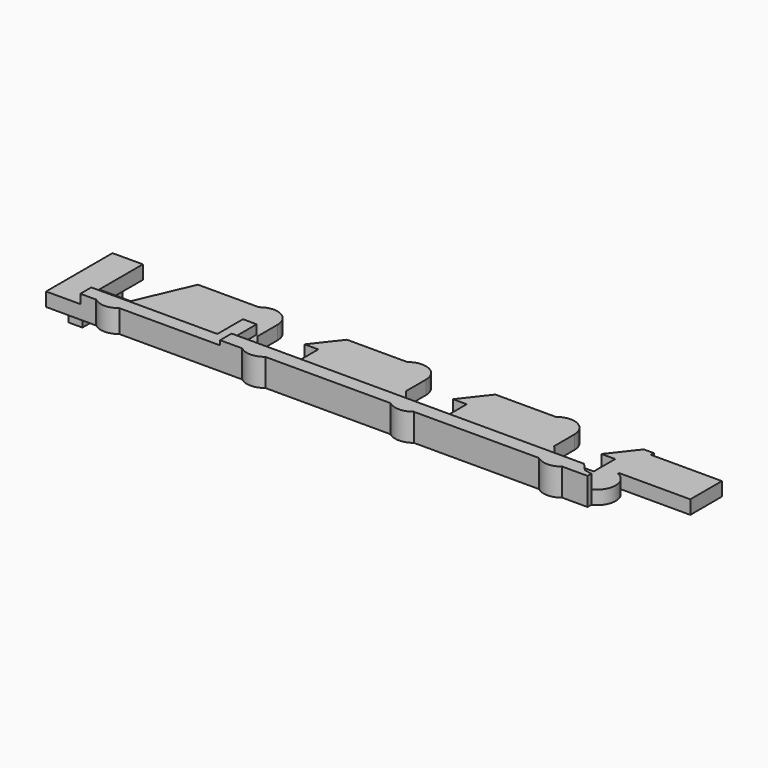
from build123d import *

# Parameters (mm, degrees)
F1_DEPTH = 1.5
F3_DEPTH = 1.5
F4_W     = 15.3044191209
F4_H     = 0.5
F5_DEPTH = 12.5
F6_W     = 1.5
F6_H     = 5.51
F7_DEPTH = 2.75


with BuildPart() as f1:
    # F0 (on Top) → F1 (new body)
    with BuildSketch(Plane.XY):
        with BuildLine():
            Line((-31.5180477679, -0.6126557182), (-34.8380477679, -0.6126557182))
            Line((-34.8380477679, -0.6126557182), (-34.8380477679, -9.7026557182))
            Line((-34.8380477679, -9.7026557182), (-29.3529247474, -9.7026557182))
            ThreePointArc((-29.3529247474, -9.7026557182), (-28.0890022814, -10.1526557182), (-26.8250798155, -9.7026557182))
            Line((-26.8250798155, -9.7026557182), (-13.3669702339, -9.7026557182))
            ThreePointArc((-13.3669702339, -9.7026557182), (-12.1030477679, -10.1526557182), (-10.8391253019, -9.7026557182))
            Line((-10.8391253019, -9.7026557182), (2.8830297661, -9.7026557182))
            ThreePointArc((2.8830297661, -9.7026557182), (4.1469522321, -10.1526557182), (5.4108746981, -9.7026557182))
            Line((5.4108746981, -9.7026557182), (19.1330297661, -9.7026557182))
            ThreePointArc((19.1330297661, -9.7026557182), (20.3969522321, -10.1526557182), (21.6608746981, -9.7026557182))
            Line((21.6608746981, -9.7026557182), (24.4319522321, -9.7026557182))
            Line((24.4319522321, -9.7026557182), (24.4319522321, -9.1846820578))
            ThreePointArc((24.4319522321, -9.1846820578), (25.6169859572, -7.3449714109), (24.4319522321, -5.5052607641))
            Line((24.4319522321, -5.5052607641), (24.4319522321, -5.3526557182))
            Line((24.4319522321, -5.3526557182), (32.2019522321, -5.3526557182))
            Line((32.2019522321, -5.3526557182), (32.2019522321, -1.0226557182))
            Line((32.2019522321, -1.0226557182), (24.4319522321, -1.0226557182))
            Line((24.4319522321, -1.0226557182), (24.4319522321, -0.6126557182))
            Line((24.4319522321, -0.6126557182), (23.3219522321, -0.6126557182))
            Line((23.3219522321, -0.6126557182), (21.0319522321, -3.5426557182))
            Line((21.0319522321, -3.5426557182), (22.5319522321, -3.5426557182))
            Line((22.5319522321, -3.5426557182), (22.5319522321, -6.4726557182))
            Line((22.5319522321, -6.4726557182), (18.2619522321, -6.4726557182))
            Line((18.2619522321, -6.4726557182), (16.9619522321, -4.9226557182))
            Line((16.9619522321, -4.9226557182), (16.9619522321, -2.1626557182))
            ThreePointArc((16.9619522321, -2.1626557182), (15.8199018425, -0.3560228098), (13.6980297661, -0.6126557182))
            Line((13.6980297661, -0.6126557182), (7.0719522321, -0.6126557182))
            Line((7.0719522321, -0.6126557182), (4.7819522321, -3.5426557182))
            Line((4.7819522321, -3.5426557182), (6.2819522321, -3.5426557182))
            Line((6.2819522321, -3.5426557182), (6.2819522321, -6.4726557182))
            Line((6.2819522321, -6.4726557182), (2.0119522321, -6.4726557182))
            Line((2.0119522321, -6.4726557182), (0.7119522321, -4.9226557182))
            Line((0.7119522321, -4.9226557182), (0.7119522321, -2.1626557182))
            ThreePointArc((0.7119522321, -2.1626557182), (-0.4300981575, -0.3560228098), (-2.5519702339, -0.6126557182))
            Line((-2.5519702339, -0.6126557182), (-9.1780477679, -0.6126557182))
            Line((-9.1780477679, -0.6126557182), (-11.4680477679, -3.5426557182))
            Line((-11.4680477679, -3.5426557182), (-9.9680477679, -3.5426557182))
            Line((-9.9680477679, -3.5426557182), (-9.9680477679, -6.4726557182))
            Line((-9.9680477679, -6.4726557182), (-14.2380477679, -6.4726557182))
            Line((-14.2380477679, -6.4726557182), (-15.5380477679, -4.9226557182))
            Line((-15.5380477679, -4.9226557182), (-15.5380477679, -2.1626557182))
            ThreePointArc((-15.5380477679, -2.1626557182), (-16.6800981575, -0.3560228098), (-18.8019702339, -0.6126557182))
            Line((-18.8019702339, -0.6126557182), (-25.4880477679, -0.6126557182))
            Line((-25.4880477679, -0.6126557182), (-28.0680477679, -6.5826557182))
            Line((-28.0680477679, -6.5826557182), (-31.5180477679, -6.5826557182))
            Line((-31.5180477679, -6.5826557182), (-31.5180477679, -0.6126557182))
        make_face()
    extrude(amount=F1_DEPTH)

    # F2 (on face) → F3 (join)
    with BuildSketch(Plane.XY.offset(1.5)):
        with BuildLine():
            Line((-31.0880477679, -8.2026557182), (-31.0880477679, -9.7026557182))
            Line((-31.0880477679, -9.7026557182), (-29.3529247474, -9.7026557182))
            ThreePointArc((-29.3529247474, -9.7026557182), (-28.0890022814, -10.1526557182), (-26.8250798155, -9.7026557182))
            Line((-26.8250798155, -9.7026557182), (-13.3669702339, -9.7026557182))
            ThreePointArc((-13.3669702339, -9.7026557182), (-12.1030477679, -10.1526557182), (-10.8391253019, -9.7026557182))
            Line((-10.8391253019, -9.7026557182), (2.8830297661, -9.7026557182))
            ThreePointArc((2.8830297661, -9.7026557182), (4.1469522321, -10.1526557182), (5.4108746981, -9.7026557182))
            Line((5.4108746981, -9.7026557182), (19.1330297661, -9.7026557182))
            ThreePointArc((19.1330297661, -9.7026557182), (20.3969522321, -10.1526557182), (21.6608746981, -9.7026557182))
            Line((21.6608746981, -9.7026557182), (24.4319522321, -9.7026557182))
            Line((24.4319522321, -9.7026557182), (24.4319522321, -9.1846820578))
            Line((24.4319522321, -9.1846820578), (23.5973913223, -9.0155852959))
            Line((23.5973913223, -9.0155852959), (22.8039156646, -8.1339450553))
            Line((22.8039156646, -8.1339450553), (-15.7880477679, -8.1339450553))
            Line((-15.7880477679, -8.1339450553), (-15.7880477679, -4.7026557182))
            Line((-15.7880477679, -4.7026557182), (-17.2880477679, -4.7026557182))
            Line((-17.2880477679, -4.7026557182), (-17.2880477679, -8.2026557182))
            Line((-17.2880477679, -8.2026557182), (-31.0880477679, -8.2026557182))
        make_face()
    extrude(amount=F3_DEPTH)

    # F4 (on face) → F5 (cut, symmetric)
    with BuildSketch(Plane(origin=(0, -8.2026557182, 0), x_dir=(-1, 0, 0), z_dir=(0, 1, 0))):
        with Locations((23.4358382075, 2.75)):
            Rectangle(F4_W, F4_H)
    extrude(amount=F5_DEPTH, both=True, mode=Mode.SUBTRACT)

    # F6 (on face) → F7 (join)
    with BuildSketch(Plane(origin=(0, 0, 0), x_dir=(1, 0, 0), z_dir=(0, 0, -1))):
        with Locations((-34.0880477679, 3.8576557182)):
            Rectangle(F6_W, F6_H)
    extrude(amount=F7_DEPTH)


solid = f1.part
